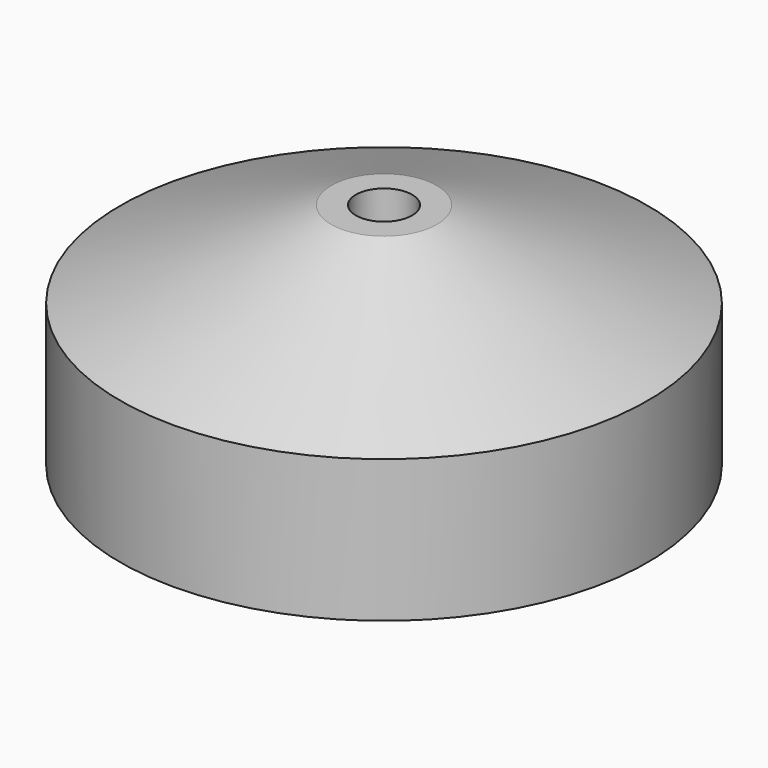
from build123d import *

# Parameters (mm, degrees)
SKETCH_W        = 12
SKETCH_H        = 12
POCKET_DEPTH    = 6
POCKET001_DEPTH = 3
CHAMFER_SIZE    = 1
CHAMFER001_SIZE = 1


with BuildPart() as part:
    # Sketch002 → Revolution (revolve)
    with BuildSketch(Plane.YZ):
        Polygon((1.6, 13), (1.6, 0), (15, 0), (15, 8.09067), (3, 13), align=None)
    revolve(axis=Axis((0, 0, 0), (0, 0, 1)))

    # Sketch (on Face4 of Revolution) → Pocket (cut)
    with BuildSketch(Plane.YX):
        Rectangle(SKETCH_W, SKETCH_H)
    extrude(amount=-POCKET_DEPTH, mode=Mode.SUBTRACT)

    # Sketch003 (on Face2 of Pocket) → Pocket001 (cut)
    with BuildSketch(Plane.YX.offset(-6)):
        Polygon((3.1, 0), (1.55, 2.684679), (-1.55, 2.684679), (-3.1, 0), (-1.55, -2.684679), (1.55, -2.684679), align=None)
    extrude(amount=-POCKET001_DEPTH, mode=Mode.SUBTRACT)

    # Chamfer
    chamfer_edges = [part.edges().sort_by_distance(p)[0] for p in [
        (0, -6, 6),
        (0, 6, 6),
        (-6, 0, 6),
        (6, 0, 6),
    ]]
    chamfer(chamfer_edges, length=CHAMFER_SIZE)

    # Chamfer001
    chamfer001_edges = [part.edges().sort_by_distance(p)[0] for p in [
        (0, -1.6, 9),
    ]]
    chamfer(chamfer001_edges, length=CHAMFER001_SIZE)


solid = part.part
